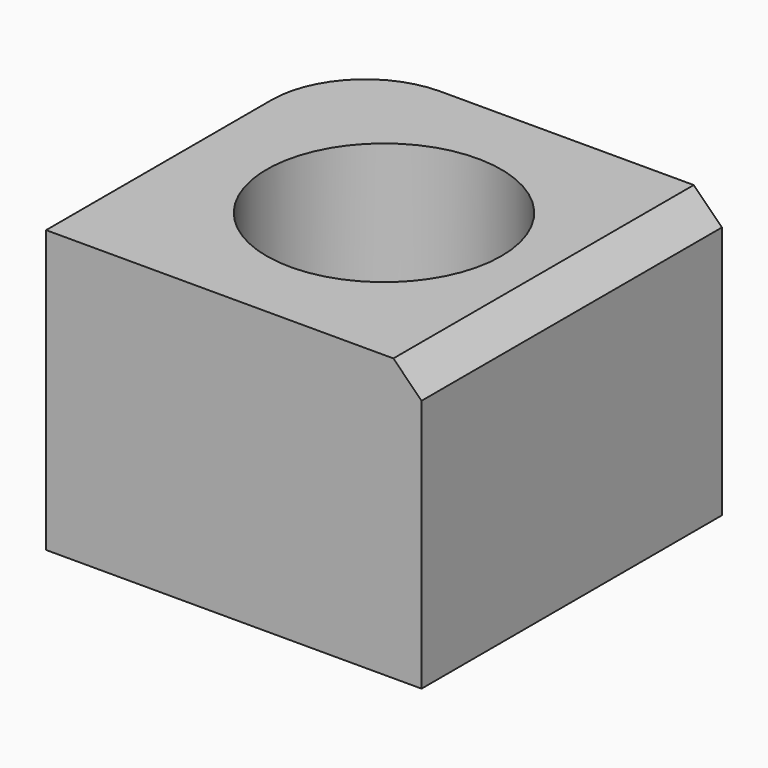
from build123d import *

# Parameters (mm, degrees)
F0_R     = 12.5
F1_DEPTH = 30
F2_SIZE  = 3


with BuildPart() as f1:
    # F0 (on Top) → F1 (new body)
    with BuildSketch(Plane.XY):
        with BuildLine():
            Line((0, 10), (0, 0))
            Line((0, 0), (0, -20))
            Line((0, -20), (40, -20))
            Line((40, -20), (40, 0))
            Line((40, 0), (40, 20))
            Line((40, 20), (10, 20))
            ThreePointArc((10, 20), (2.928932, 17.071068), (0, 10))
        make_face()
        with Locations((20, 0)):
            Circle(F0_R, mode=Mode.SUBTRACT)
    extrude(amount=F1_DEPTH)

    # F2
    f2_edges = [f1.edges().sort_by_distance(p)[0] for p in [
        (40, 0, 30),
    ]]
    chamfer(f2_edges, length=F2_SIZE)


solid = f1.part
